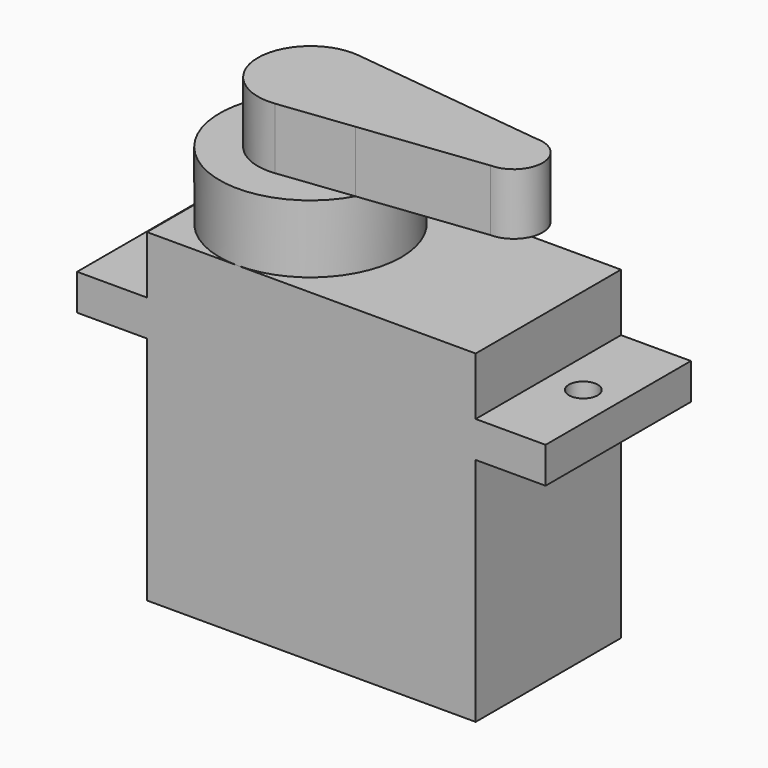
from build123d import *

# Parameters (mm, degrees)
F1_W      = 22.8
F1_H      = 12.6
F2_DEPTH  = 16
F4_W      = 32.5
F4_H      = 12.6
F4_R      = 1
F5_DEPTH  = 2.5
F7_W      = 22.8
F7_H      = 12.6
F8_DEPTH  = 4
F10_R     = 6.3
F11_DEPTH = 4.7
F14_DEPTH = 4.25


with BuildPart() as f2:
    # F1 (on Top) → F2 (new body)
    with BuildSketch(Plane.XY):
        Rectangle(F1_W, F1_H)
    extrude(amount=F2_DEPTH)

    # F4 (on face) → F5 (join)
    with BuildSketch(Plane.XY.offset(16)):
        Rectangle(F4_W, F4_H)
        with Locations((-13.825, 0)):
            Circle(F4_R, mode=Mode.SUBTRACT)
        with Locations((13.825, 0)):
            Circle(F4_R, mode=Mode.SUBTRACT)
    extrude(amount=F5_DEPTH)

    # F7 (on face) → F8 (join)
    with BuildSketch(Plane.XY.offset(18.5)):
        Rectangle(F7_W, F7_H)
    extrude(amount=F8_DEPTH)

    # F10 (on face) → F11 (join)
    with BuildSketch(Plane.XY.offset(22.5)):
        with Locations((-5.1, 0)):
            Circle(F10_R)
    extrude(amount=F11_DEPTH)


with BuildPart() as f14:
    # F13 (on face) → F14 (new body)
    with BuildSketch(Plane.XY.offset(27.2)):
        with BuildLine():
            Line((0.4297926038, 3.0185085321), (-4.6692544986, 3.6244942148))
            ThreePointArc((-4.6692544986, 3.6244942148), (-8.75, 0), (-4.6692544986, -3.6244942148))
            Line((-4.6692544986, -3.6244942148), (0.4297926038, -3.0185085321))
            ThreePointArc((0.4297926038, -3.0185085321), (1.0044120685, -1.5576114079), (1.2, 0))
            ThreePointArc((1.2, 0), (1.0044120685, 1.5576114079), (0.4297926038, 3.0185085321))
        make_face()
        with BuildLine():
            Line((9, 2), (0.4297926038, 3.0185085321))
            ThreePointArc((0.4297926038, 3.0185085321), (1.0044120685, 1.5576114079), (1.2, 0))
            ThreePointArc((1.2, 0), (1.0044120685, -1.5576114079), (0.4297926038, -3.0185085321))
            Line((0.4297926038, -3.0185085321), (9, -2))
            ThreePointArc((9, -2), (11, 0), (9, 2))
        make_face()
    extrude(amount=F14_DEPTH)


solid = Compound([f2.part, f14.part])
